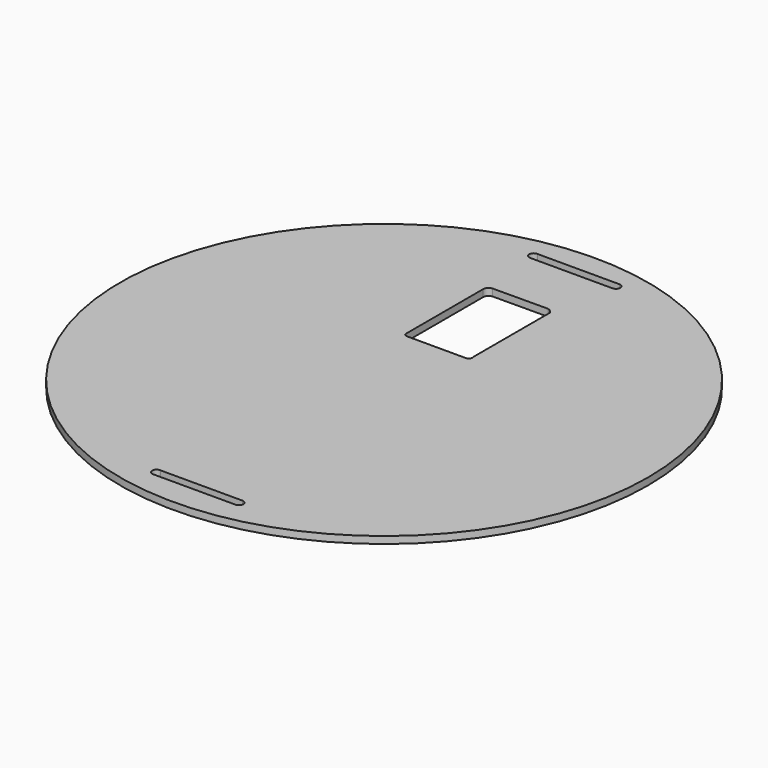
from build123d import *

# Parameters (mm, degrees)
F0_R     = 57.143976
F1_DEPTH = 1.524


with BuildPart() as f1:
    # F0 (on Top) → F1 (new body)
    with BuildSketch(Plane.XY):
        Circle(F0_R)
        with BuildLine():
            Line((-8.865699, -49.448021), (0, -49.448021))
            Line((0, -49.448021), (8.89203, -49.448021))
            ThreePointArc((8.89203, -49.448021), (9.842032, -50.398022), (8.89203, -51.348023))
            Line((8.89203, -51.348023), (0, -51.348023))
            Line((0, -51.348023), (-8.938776, -51.348023))
            ThreePointArc((-8.938776, -51.348023), (-9.88948, -50.360051), (-8.865699, -49.448021))
        make_face(mode=Mode.SUBTRACT)
        with BuildLine():
            Line((5.754336, 14.896364), (-7.015019, 14.896364))
            ThreePointArc((-7.015019, 14.896364), (-7.439497, 15.036524), (-7.697055, 15.401887))
            Line((-7.697055, 15.401887), (-7.697055, 36.444125))
            ThreePointArc((-7.697055, 36.444125), (-7.388423, 37.234363), (-6.625911, 37.606257))
            Line((-6.625911, 37.606257), (5.332721, 37.670245))
            ThreePointArc((5.332721, 37.670245), (6.038829, 37.32184), (6.510431, 36.691312))
            Line((6.510431, 36.691312), (6.510431, 16.025937))
            ThreePointArc((6.510431, 16.025937), (6.572174, 15.714202), (6.510431, 15.402467))
            ThreePointArc((6.510431, 15.402467), (6.209259, 15.034567), (5.754336, 14.896364))
        make_face(mode=Mode.SUBTRACT)
        with BuildLine():
            Line((-8.576616, 52.221972), (-1.39169, 52.221972))
            Line((-1.39169, 52.221972), (9.181114, 52.221972))
            ThreePointArc((9.181114, 52.221972), (10.131115, 51.271971), (9.181114, 50.321969))
            Line((9.181114, 50.321969), (-1.39169, 50.321969))
            Line((-1.39169, 50.321969), (-8.649693, 50.321969))
            ThreePointArc((-8.649693, 50.321969), (-9.600397, 51.309942), (-8.576616, 52.221972))
        make_face(mode=Mode.SUBTRACT)
    extrude(amount=F1_DEPTH)


solid = f1.part
